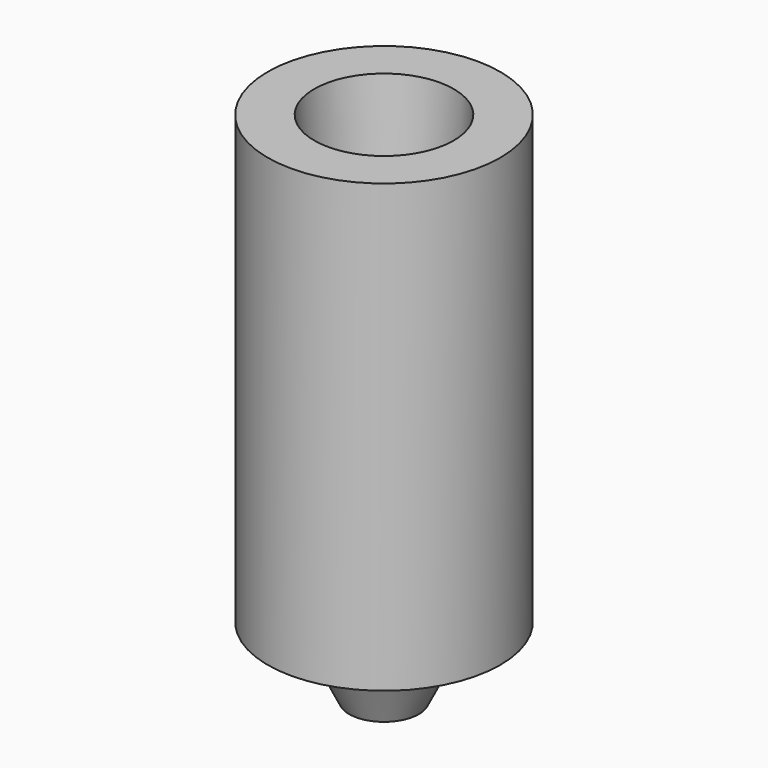
from build123d import *


with BuildPart() as f2:
    # F0 (on Right) → F2 (revolve)
    with BuildSketch(Plane.YZ):
        Polygon((5, 19.2), (3, 19.2), (1.5, -3), (3, 0), (5, 0), align=None)
    revolve(axis=Axis((0, 0, 22.745814), (0, 0, 1)))


solid = f2.part
